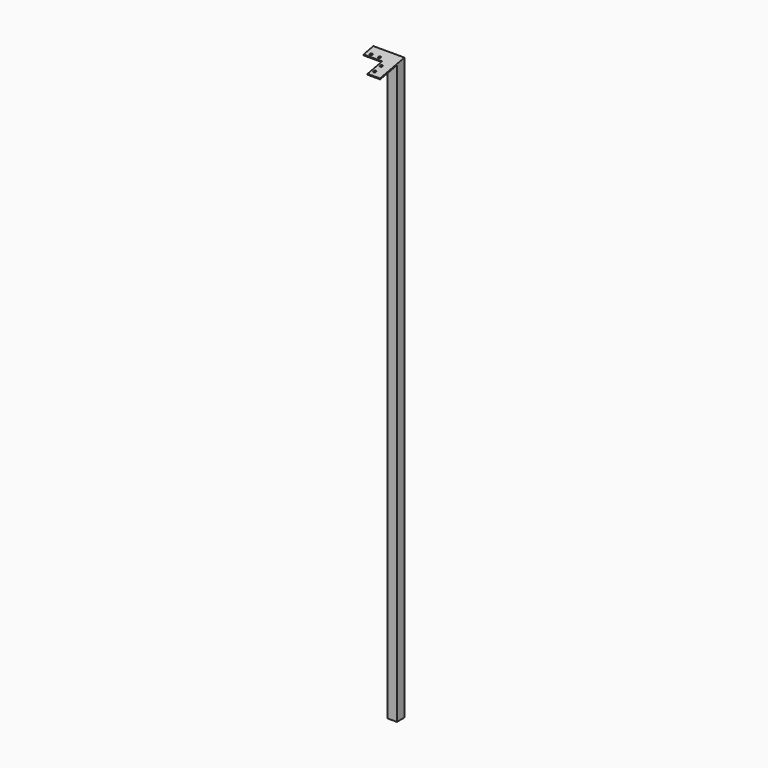
from build123d import *

# Parameters (mm, degrees)
F0_W      = 45
F0_H      = 45
F1_DEPTH  = 3330
F6_W      = 45
F6_H      = 45.842251273
F7_DEPTH  = 25
F8_W      = 60
F8_H      = 60
F8_W_2    = 90
F8_H_2    = 90
F9_DEPTH  = 5
F10_R     = 6
F11_DEPTH = 25
F13_DEPTH = 5
F14_R     = 8
F15_DEPTH = 60
F16_W     = 45
F16_H     = 45
F17_DEPTH = 534
F19_DEPTH = 150.001


with BuildPart() as f1:
    # F0 (on Top) → F1 (new body)
    with BuildSketch(Plane.XY):
        Rectangle(F0_W, F0_H)
    extrude(amount=F1_DEPTH)

    # F6 (on face) → F7 (join)
    with BuildSketch(Plane(origin=(0, -624.5391596736, 3212.9754420296), x_dir=(1, 0, 0), z_dir=(0, 0.1908089954, -0.9816271834))):
        with Locations((0, -636.2284686128)):
            Rectangle(F6_W, F6_H)
    extrude(amount=F7_DEPTH)

    # F8 (on face) → F9 (join)
    with BuildSketch(Plane(origin=(0, -624.5391596736, 3212.9754420296), x_dir=(1, 0, 0), z_dir=(0, 0.1908089954, -0.9816271834))):
        with Locations((-7.5, -629.1495942493)):
            Rectangle(F8_W, F8_H)
        with Locations((-82.5, -629.1495942493)):
            Rectangle(F8_W_2, F8_H)
        with Locations((-7.5, -554.1495942493)):
            Rectangle(F8_W, F8_H_2)
    extrude(amount=F9_DEPTH)

    # F10 (on face) → F11 (cut)
    with BuildSketch(Plane(origin=(0, -624.5391596736, 3212.9754420296), x_dir=(1, 0, 0), z_dir=(0, -0.1908089954, 0.9816271834))):
        with Locations((-22.5, 534.1495942493)):
            Circle(F10_R)
        with Locations((-22.5, 574.1495942493)):
            Circle(F10_R)
        with Locations((-62.5, 614.1495942493)):
            Circle(F10_R)
        with Locations((-102.5, 614.1495942493)):
            Circle(F10_R)
    extrude(amount=-F11_DEPTH, mode=Mode.SUBTRACT)

    # F3 (on offset) → F13 (join)
    with BuildSketch(Plane.XY.offset(1256)):
        with BuildLine():
            ThreePointArc((0, 22.5), (7.0710678119, 25.4289321881), (10, 32.5))
            ThreePointArc((10, 32.5), (0, 42.5), (-10, 32.5))
            ThreePointArc((-10, 32.5), (-7.0710678119, 25.4289321881), (0, 22.5))
        make_face()
        with BuildLine():
            Line((10, 22.5), (10, 32.5))
            ThreePointArc((10, 32.5), (7.0710678119, 25.4289321881), (0, 22.5))
            Line((0, 22.5), (10, 22.5))
        make_face()
        with BuildLine():
            ThreePointArc((0, 22.5), (-7.0710678119, 25.4289321881), (-10, 32.5))
            Line((-10, 32.5), (-10, 22.5))
            Line((-10, 22.5), (0, 22.5))
        make_face()
    extrude(amount=F13_DEPTH)

    # F14 (on face) → F15 (join)
    with BuildSketch(Plane.XY.offset(1261)):
        with BuildLine():
            ThreePointArc((0, 22.5), (7.0710678119, 25.4289321881), (10, 32.5))
            ThreePointArc((10, 32.5), (0, 42.5), (-10, 32.5))
            ThreePointArc((-10, 32.5), (-7.0710678119, 25.4289321881), (0, 22.5))
        make_face()
        with Locations((0, 32.5)):
            Circle(F14_R, mode=Mode.SUBTRACT)
        with BuildLine():
            Line((10, 22.5), (10, 32.5))
            ThreePointArc((10, 32.5), (7.0710678119, 25.4289321881), (0, 22.5))
            Line((0, 22.5), (10, 22.5))
        make_face()
        with BuildLine():
            ThreePointArc((0, 22.5), (-7.0710678119, 25.4289321881), (-10, 32.5))
            Line((-10, 32.5), (-10, 22.5))
            Line((-10, 22.5), (0, 22.5))
        make_face()
    extrude(amount=F15_DEPTH)

    # F16 (on face) → F17 (cut)
    with BuildSketch(Plane(origin=(0, 0, 0), x_dir=(1, 0, 0), z_dir=(0, 0, -1))):
        Rectangle(F16_W, F16_H)
    extrude(amount=-F17_DEPTH, mode=Mode.SUBTRACT)

    # F18 (on face) → F19 (cut, through all)
    with BuildSketch(Plane.YZ.offset(22.5)):
        Polygon((22.5, 3338.7471139112), (22.5, 3313.2791965373), (27.2702248844, 3314.206434325), align=None)
    extrude(amount=-F19_DEPTH, mode=Mode.SUBTRACT)


solid = f1.part
